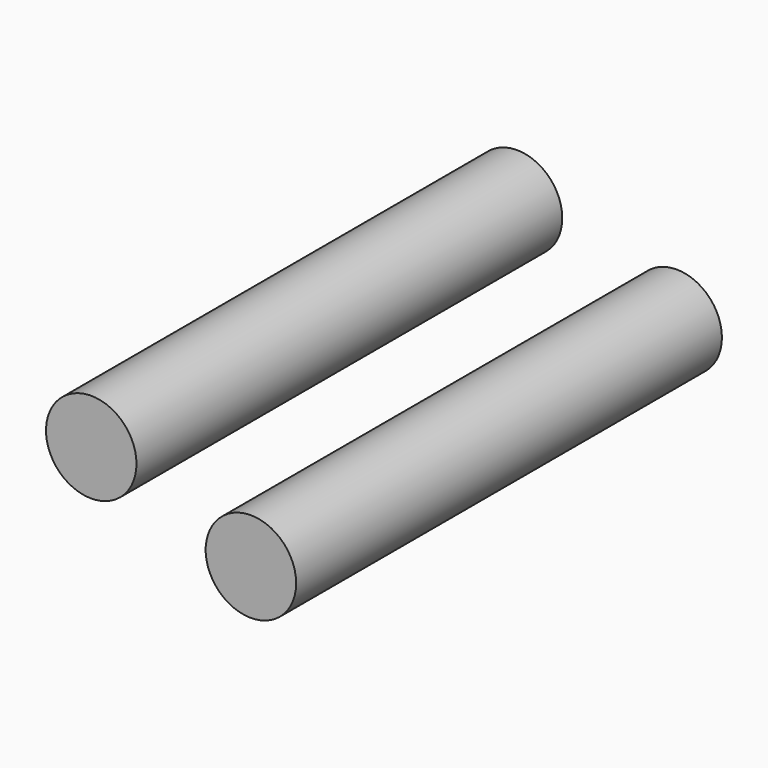
from build123d import *

# Parameters (mm, degrees)
CYLINDER079_R          = 1.7
CYLINDER079_DEPTH      = 20
CYLINDER079_ROLL_ANGLE = 90
CYLINDER078_R          = 1.7
CYLINDER078_DEPTH      = 20
CYLINDER078_ROLL_ANGLE = 90


with BuildPart() as cylinder079:
    # Cylinder079 → Cylinder079 (new body)
    with BuildSketch(Plane.XY):
        Circle(CYLINDER079_R)
    extrude(amount=CYLINDER079_DEPTH)


with BuildPart() as cylinder079_1:
    # Cylinder079 roll: moved
    add(cylinder079.part.rotate(Axis((0, 0, 0), (1, 0, 0)), CYLINDER079_ROLL_ANGLE))


with BuildPart() as cylinder079_2:
    # Cylinder079 placement: moved
    add(cylinder079_1.part.moved(Location((5, 10, -41.5))))


with BuildPart() as m3_clearance:
    # Cylinder078 → Cylinder078 (new body)
    with BuildSketch(Plane.XY):
        Circle(CYLINDER078_R)
    extrude(amount=CYLINDER078_DEPTH)


with BuildPart() as m3_clearance_1:
    # Cylinder078 roll: moved
    add(m3_clearance.part.rotate(Axis((0, 0, 0), (1, 0, 0)), CYLINDER078_ROLL_ANGLE))


with BuildPart() as m3_clearance_2:
    # Cylinder078 placement: moved
    add(m3_clearance_1.part.moved(Location((11, 10, -43.5))))

    # Fusion091: union Cylinder079
    add(cylinder079_2.part)


with BuildPart() as m3_clearance_3:
    # Fusion091 placement: moved
    add(m3_clearance_2.part.moved(Location((0, 0, -6))))


solid = m3_clearance_3.part
